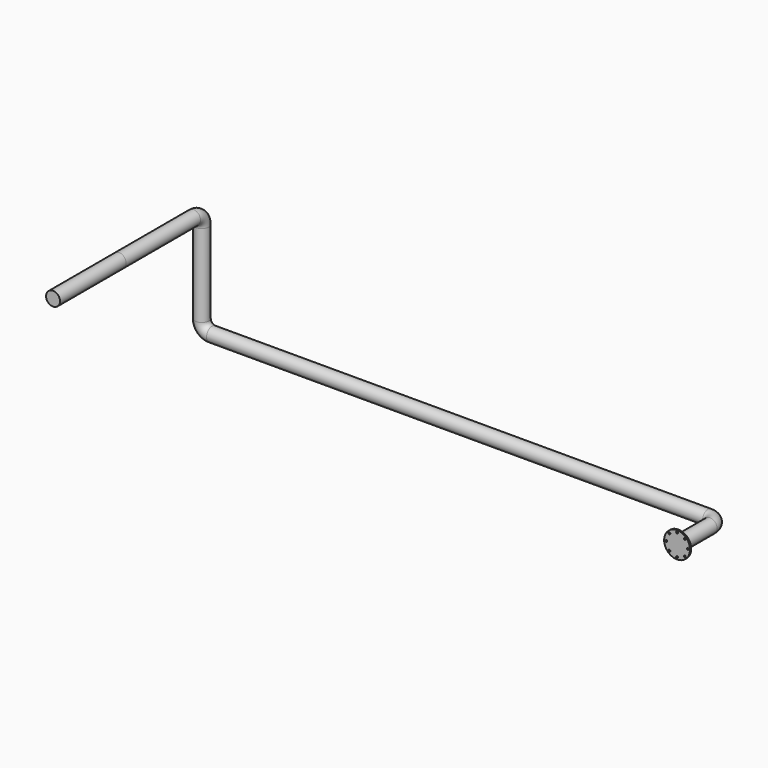
from build123d import *

# Parameters (mm, degrees)
F3_R     = 67.5
F3_R_2   = 125
F3_R_3   = 9
F6_DEPTH = 15
F7_R     = 67.5
F8_DEPTH = 800


with BuildPart() as f5:
    # F5: sweep along a path in F0, F1, F4
    with BuildLine(Plane.XY) as f5_path:
        Line((5000, -500), (5000, -100))
        ThreePointArc((5000, -100), (4970.7106781187, -29.2893218813), (4900, 0))
    with BuildLine(Plane.XZ) as f5_path_2:
        Line((4900, 0), (100, 0))
        ThreePointArc((100, 0), (29.2893218813, 29.2893218813), (0, 100))
    with BuildLine(Plane.YZ) as f5_path_3:
        Line((0, 100), (0, 900))
        ThreePointArc((0, 900), (-29.2893218813, 970.7106781187), (-100, 1000))
        Line((-100, 1000), (-1000, 1000))
    # F3 (on offset) → F5 (sweep)
    with BuildSketch(Plane.XZ.offset(500)):
        with Locations((5000, 0)):
            Circle(F3_R)
    sweep(path=f5_path.line + f5_path_2.line + f5_path_3.line)

    # F3 (on offset) → F6 (join)
    with BuildSketch(Plane.XZ.offset(500)):
        with Locations((5000, 0)):
            Circle(F3_R_2)
        with Locations((4925.7537879754, -74.2462120246)):
            Circle(F3_R_3, mode=Mode.SUBTRACT)
        with Locations((5000, -105)):
            Circle(F3_R_3, mode=Mode.SUBTRACT)
        with Locations((5074.2462120246, -74.2462120246)):
            Circle(F3_R_3, mode=Mode.SUBTRACT)
        with Locations((4895, 0)):
            Circle(F3_R_3, mode=Mode.SUBTRACT)
        with Locations((4925.7537879754, 74.2462120246)):
            Circle(F3_R_3, mode=Mode.SUBTRACT)
        with Locations((5000, 0)):
            Circle(F3_R, mode=Mode.SUBTRACT)
        with Locations((5105, 0)):
            Circle(F3_R_3, mode=Mode.SUBTRACT)
        with Locations((5000, 105)):
            Circle(F3_R_3, mode=Mode.SUBTRACT)
        with Locations((5074.2462120246, 74.2462120246)):
            Circle(F3_R_3, mode=Mode.SUBTRACT)
    extrude(amount=-F6_DEPTH)

    # F7 (on face) → F8 (join)
    with BuildSketch(Plane.XZ.offset(1000)):
        with Locations((0, 1000)):
            Circle(F7_R)
    extrude(amount=F8_DEPTH)


solid = f5.part
